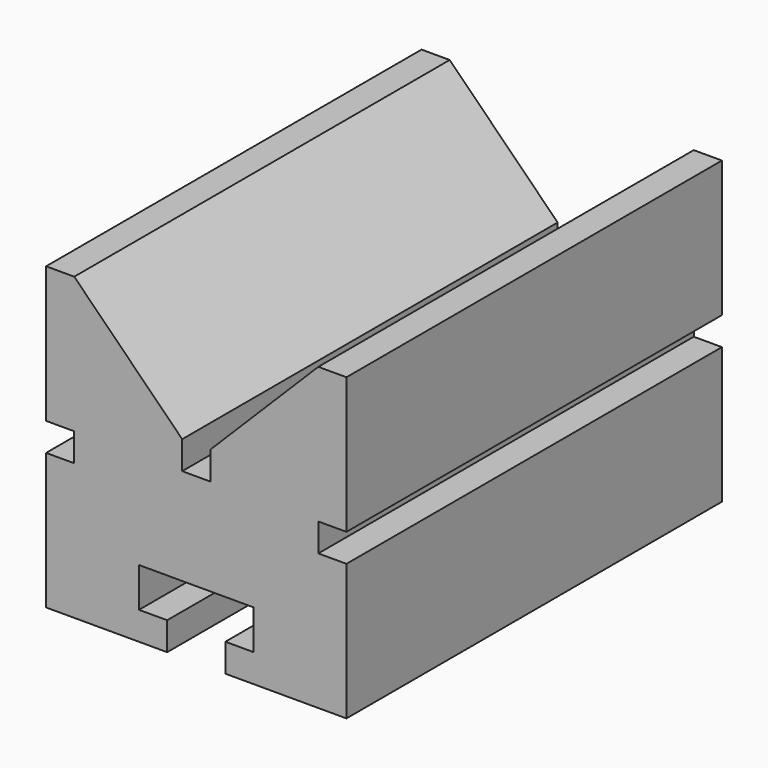
from build123d import *

# Parameters (mm, degrees)
F1_DEPTH = 25


with BuildPart() as f1:
    # F0 (on Front) → F1 (new body, symmetric)
    with BuildSketch(Plane.XZ):
        Polygon((-15.9999988203, -0.8011669839), (-15.9999988203, -15.3011669839), (-3.0999990533, -15.3011669839), (-3.0999990533, -12.3011669839), (-6.0999990533, -12.3011669839), (-6.0999990533, -8.1011669839), (6.1000009467, -8.1011669839), (6.1000009467, -12.3011669839), (3.1000009467, -12.3011669839), (3.1000009467, -15.3011669839), (16.0000009467, -15.3011669839), (16.0000009467, -0.8011669839), (13.0000011797, -0.8011669839), (13.0000011797, 2.1988330161), (16.0000011797, 2.1988330161), (16.0000011797, 16.6988330161), (13.0000011797, 16.6988330161), (1.5, 5.1988330161), (1.5, 2.1988330161), (0, 2.1988330161), (-1.5, 2.1988330161), (-1.5, 5.1988330161), (-12.9999988203, 16.6988330161), (-15.9999988203, 16.6988330161), (-15.9999988203, 2.1988330161), (-12.9999988203, 2.1988330161), (-12.9999988203, -0.8011669839), align=None)
    extrude(amount=F1_DEPTH, both=True)


solid = f1.part
